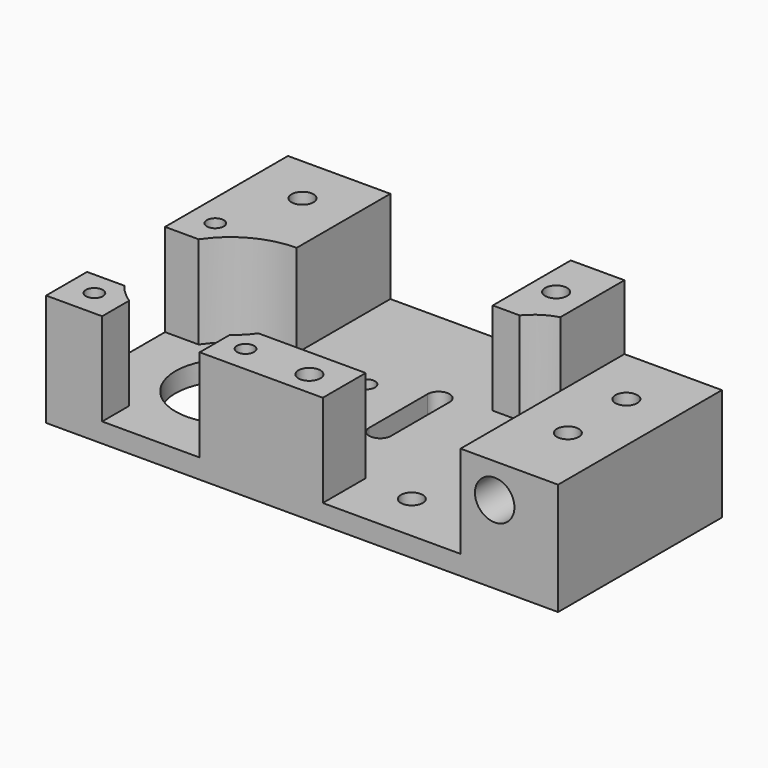
from build123d import *

# Parameters (mm, degrees)
SKETCH_R        = 2.25
SKETCH_R_2      = 11.25
SKETCH_R_3      = 1.75
PAD_DEPTH       = 23
POCKET_DEPTH    = 19
SKETCH004_R     = 2.25
POCKET003_DEPTH = 10
SKETCH005_R     = 4.05
POCKET004_DEPTH = 12
SKETCH006_R     = 3.75
POCKET005_DEPTH = 10


with BuildPart() as pocket005:
    # Sketch → Pad (new body)
    with BuildSketch(Plane.XY):
        Polygon((0, 0), (105, 0), (105, 62), (20, 62), (20, 42), (0, 42), align=None)
        with Locations((38, 10)):
            Circle(SKETCH_R, mode=Mode.SUBTRACT)
        with Locations((33, 35)):
            Circle(SKETCH_R, mode=Mode.SUBTRACT)
        with Locations((84, 21)):
            Circle(SKETCH_R_2, mode=Mode.SUBTRACT)
        with Locations((68.5, 36.5)):
            Circle(SKETCH_R_3, mode=Mode.SUBTRACT)
        with Locations((99.5, 36.5)):
            Circle(SKETCH_R_3, mode=Mode.SUBTRACT)
        with Locations((68.5, 5.5)):
            Circle(SKETCH_R_3, mode=Mode.SUBTRACT)
        with Locations((99.5, 5.5)):
            Circle(SKETCH_R_3, mode=Mode.SUBTRACT)
        with Locations((10, 30)):
            Circle(SKETCH_R, mode=Mode.SUBTRACT)
        with Locations((10, 15)):
            Circle(SKETCH_R, mode=Mode.SUBTRACT)
        with Locations((42, 52)):
            Circle(SKETCH_R, mode=Mode.SUBTRACT)
        with Locations((94, 52)):
            Circle(SKETCH_R, mode=Mode.SUBTRACT)
        with BuildLine():
            Line((58.75, 25), (58.75, 39.999999))
            ThreePointArc((58.75, 39.999999), (56.5, 42.25), (54.25, 39.999998))
            Line((54.25, 25.000001), (54.25, 39.999998))
            ThreePointArc((54.25, 25.000001), (56.5, 22.75), (58.75, 25))
        make_face(mode=Mode.SUBTRACT)
    extrude(amount=PAD_DEPTH)

    # Sketch001 → Pocket (cut)
    with BuildSketch(Plane.XY.offset(23)):
        with BuildLine():
            ThreePointArc((41.485277, 42), (39.015593, 44.209375), (35.999996, 45.583005))
            Line((35.999996, 67), (35.999996, 45.583005))
            Line((20, 67), (35.999996, 67))
            Line((20, -1), (20, 67))
            Line((20, -1), (48.252269, -1))
            Line((48.252269, 11), (48.252269, -1))
            Line((48.252269, 11), (70.252269, 11))
            ThreePointArc((70.252269, 11), (71.759618, 9.202833), (73.499996, 7.630258))
            Line((73.499996, 7.630258), (73.499996, -1))
            Line((73.499996, -1), (93.499996, -1))
            Line((93.499996, -1), (93.499996, 6.902128))
            ThreePointArc((93.499996, 6.902128), (95.574295, 8.548671), (97.367695, 10.497399))
            Line((105.499996, 10.497399), (97.367695, 10.497399))
            Line((105.499996, 30.497399), (105.499996, 10.497399))
            Line((98.099621, 30.497399), (105.499996, 30.497399))
            ThreePointArc((98.099621, 30.497399), (91.98574, 36.007594), (83.999996, 38))
            Line((83.999996, 38), (83.999996, 67))
            Line((83.999996, 67), (46.999996, 67))
            Line((46.999996, 67), (46.999996, 42))
            Line((41.485277, 42), (46.999996, 42))
        make_face()
    extrude(amount=-POCKET_DEPTH, mode=Mode.SUBTRACT)

    # Sketch004 → Pocket003 (cut)
    with BuildSketch(Plane.XY.offset(23)):
        with Locations((55, 5)):
            Circle(SKETCH004_R)
    extrude(amount=-POCKET003_DEPTH, mode=Mode.SUBTRACT)

    # Sketch005 → Pocket004 (cut)
    with BuildSketch(Plane.XZ):
        with Locations((13, 16)):
            Circle(SKETCH005_R)
    extrude(amount=-POCKET004_DEPTH, mode=Mode.SUBTRACT)

    # Sketch006 → Pocket005 (cut)
    with BuildSketch(Plane(origin=(0, 0, 0), x_dir=(1, 0, 0), z_dir=(0, 0, -1))):
        with Locations((10, -15)):
            Circle(SKETCH006_R)
        with Locations((10, -30)):
            Circle(SKETCH006_R)
        with Locations((42, -52)):
            Circle(SKETCH006_R)
        with Locations((94, -52)):
            Circle(SKETCH006_R)
    extrude(amount=-POCKET005_DEPTH, mode=Mode.SUBTRACT)


with BuildPart() as part_mirroring:
    # Part__Mirroring: instance of Pocket005
    add(pocket005.part.mirror(Plane(origin=(0, 0, 0), x_dir=(0, -1, 0), z_dir=(1, 0, 0))))


solid = part_mirroring.part
